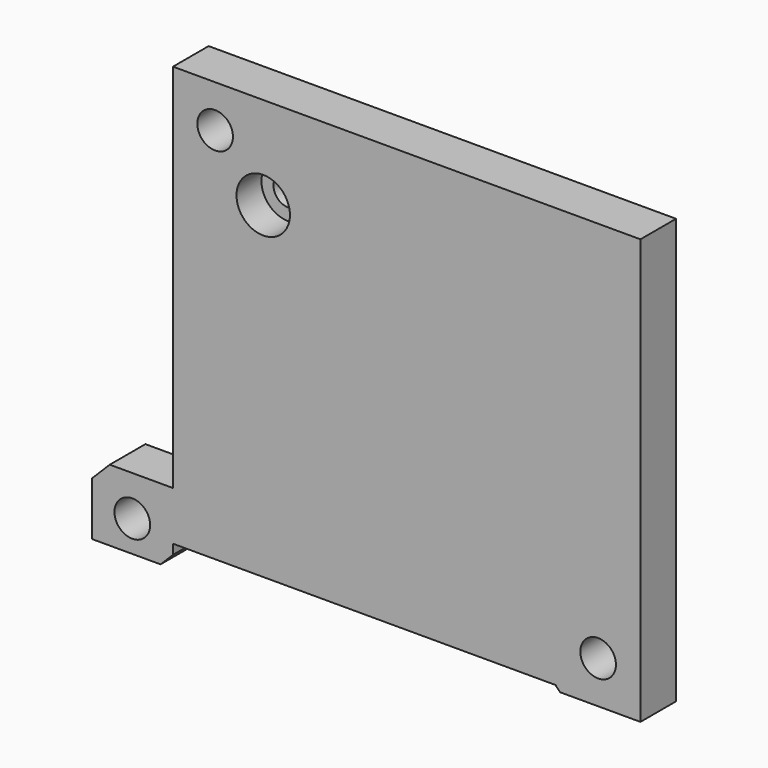
from build123d import *

# Parameters (mm, degrees)
CYLINDER067_R         = 3
CYLINDER067_DEPTH     = 17
CYLINDER064_R         = 1.65
CYLINDER064_DEPTH     = 17
CYLINDER061_R         = 2
CYLINDER061_DEPTH     = 10
CYLINDER062_R         = 2
CYLINDER062_DEPTH     = 10
BOX063025_W           = 13
BOX063025_H           = 5.4
BOX063025_DEPTH       = 4.5
BOX063028_W           = 13
BOX063028_H           = 5.25
BOX063028_DEPTH       = 4.5
CYLINDER063_R         = 1.3
CYLINDER063_DEPTH     = 10
BOX063027_W           = 3
BOX063027_H           = 10.5
BOX063027_DEPTH       = 5
CHAMFER005021028_SIZE = 1
CYLINDER065_R         = 2.5
CYLINDER065_DEPTH     = 1
CHAMFER005021027_SIZE = 0.6
BOX063024_W           = 3.1
BOX063024_H           = 10.5
BOX063024_DEPTH       = 4.5
CHAMFER005021029_SIZE = 1
CYLINDER060_R         = 2
CYLINDER060_DEPTH     = 10
BOX063018_W           = 9.1
BOX063018_H           = 5
BOX063018_DEPTH       = 8
CHAMFER005021024_SIZE = 2
CHAMFER005021025_SIZE = 1.4
BOX063020_W           = 9.5
BOX063020_H           = 5
BOX063020_DEPTH       = 1.55
CHAMFER005021032_SIZE = 0.5
BOX063019_W           = 52.48
BOX063019_H           = 5
BOX063019_DEPTH       = 47.15
BOX063021_W           = 14
BOX063021_H           = 5.5
BOX063021_DEPTH       = 7.5
CHAMFER005021026_SIZE = 0.5
BOX063023_W           = 2.9
BOX063023_H           = 10.5
BOX063023_DEPTH       = 7
CHAMFER005021031_SIZE = 1
BOX063022_W           = 2.9
BOX063022_H           = 10.5
BOX063022_DEPTH       = 7
CHAMFER005021030_SIZE = 1


with BuildPart() as cylinder067:
    # Cylinder067 → Cylinder067 (new body)
    with BuildSketch(Plane(origin=(0, -52, 35.75), x_dir=(1, 0, 0), z_dir=(0, -1, 0))):
        Circle(CYLINDER067_R)
    extrude(amount=CYLINDER067_DEPTH)


with BuildPart() as cylinder064:
    # Cylinder064 → Cylinder064 (new body)
    with BuildSketch(Plane(origin=(0, -43, 35.75), x_dir=(1, 0, 0), z_dir=(0, -1, 0))):
        Circle(CYLINDER064_R)
    extrude(amount=CYLINDER064_DEPTH)


with BuildPart() as cylinder061:
    # Cylinder061 → Cylinder061 (new body)
    with BuildSketch(Plane(origin=(-5.4, -67, 41.4), x_dir=(1, 0, 0), z_dir=(0, -1, 0))):
        Circle(CYLINDER061_R)
    extrude(amount=CYLINDER061_DEPTH)


with BuildPart() as fusion036012039007:
    # Cylinder062 → Cylinder062 (new body)
    with BuildSketch(Plane(origin=(37.6, -67, 3.2), x_dir=(1, 0, 0), z_dir=(0, -1, 0))):
        Circle(CYLINDER062_R)
    extrude(amount=CYLINDER062_DEPTH)

    # Fusion036012039007: union Cylinder061
    add(cylinder061.part)


with BuildPart() as fusion036012039007_1:
    # Fusion036012039007 placement: moved
    add(fusion036012039007.part.moved(Location((0, 16.5, 0))))


with BuildPart() as cube083:
    # Box063025 → Box063025 (new body)
    with BuildSketch(Plane(origin=(-6.5, -50.5, 7), x_dir=(1, 0, 0), z_dir=(0, 0, 1))):
        with Locations((6.5, 2.7)):
            Rectangle(BOX063025_W, BOX063025_H)
    extrude(amount=BOX063025_DEPTH)


with BuildPart() as cube086:
    # Box063028 → Box063028 (new body)
    with BuildSketch(Plane(origin=(6.5, -50.5, 7), x_dir=(1, 0, 0), z_dir=(0, 0, 1))):
        with Locations((6.5, 2.625)):
            Rectangle(BOX063028_W, BOX063028_H)
    extrude(amount=BOX063028_DEPTH)


with BuildPart() as cylinder063:
    # Cylinder063 → Cylinder063 (new body)
    with BuildSketch(Plane(origin=(24, -42.5, 9.5), x_dir=(0, 0, 1), z_dir=(-1, 0, 0))):
        Circle(CYLINDER063_R)
    extrude(amount=CYLINDER063_DEPTH)


with BuildPart() as chamfer005021029:
    # Box063027 → Box063027 (new body)
    with BuildSketch(Plane(origin=(17.5, -50.5, 7), x_dir=(1, 0, 0), z_dir=(0, 0, 1))):
        with Locations((1.5, 5.25)):
            Rectangle(BOX063027_W, BOX063027_H)
    extrude(amount=BOX063027_DEPTH)

    # Chamfer005021028
    chamfer005021028_edges = [chamfer005021029.edges().sort_by_distance(p)[0] for p in [
        (19, -40, 7),
        (19, -40, 12),
    ]]
    chamfer(chamfer005021028_edges, length=CHAMFER005021028_SIZE)


with BuildPart() as cut036009013017007008008017:
    # Cylinder065 → Cylinder065 (new body)
    with BuildSketch(Plane(origin=(17.5, -42.5, 9.5), x_dir=(0, 0, 1), z_dir=(-1, 0, 0))):
        Circle(CYLINDER065_R)
    extrude(amount=CYLINDER065_DEPTH)

    # Chamfer005021027
    chamfer005021027_edges = [cut036009013017007008008017.edges().sort_by_distance(p)[0] for p in [
        (16.5, -42.5, 7),
    ]]
    chamfer(chamfer005021027_edges, length=CHAMFER005021027_SIZE)

    # Fusion036012039002: union Chamfer005021029
    add(chamfer005021029.part)

    # Cut036009013017007008008017: cut Cylinder063
    add(cylinder063.part, mode=Mode.SUBTRACT)


with BuildPart() as fusion036012039004:
    # Box063024 → Box063024 (new body)
    with BuildSketch(Plane(origin=(-9.5, -50.5, 7), x_dir=(1, 0, 0), z_dir=(0, 0, 1))):
        with Locations((1.55, 5.25)):
            Rectangle(BOX063024_W, BOX063024_H)
    extrude(amount=BOX063024_DEPTH)

    # Chamfer005021029
    chamfer005021029_edges = [fusion036012039004.edges().sort_by_distance(p)[0] for p in [
        (-7.95, -40, 7),
        (-7.95, -40, 11.5),
    ]]
    chamfer(chamfer005021029_edges, length=CHAMFER005021029_SIZE)

    # Fusion036012039004: union Cube083, Cube086, Cut036009013017007008008017
    add(cube083.part)
    add(cube086.part)
    add(cut036009013017007008008017.part)


with BuildPart() as cylinder060:
    # Cylinder060 → Cylinder060 (new body)
    with BuildSketch(Plane(origin=(-14.7, -48.5, 0), x_dir=(1, 0, 0), z_dir=(0, -1, 0))):
        Circle(CYLINDER060_R)
    extrude(amount=CYLINDER060_DEPTH)


with BuildPart() as cut036009013017007008008016:
    # Box063018 → Box063018 (new body)
    with BuildSketch(Plane(origin=(-19.23, -55.5, -3.5), x_dir=(1, 0, 0), z_dir=(0, 0, 1))):
        with Locations((4.55, 2.5)):
            Rectangle(BOX063018_W, BOX063018_H)
    extrude(amount=BOX063018_DEPTH)

    # Chamfer005021024
    chamfer005021024_edges = [cut036009013017007008008016.edges().sort_by_distance(p)[0] for p in [
        (-19.23, -53, 4.5),
    ]]
    chamfer(chamfer005021024_edges, length=CHAMFER005021024_SIZE)

    # Chamfer005021025
    chamfer005021025_edges = [cut036009013017007008008016.edges().sort_by_distance(p)[0] for p in [
        (-10.13, -53, -3.5),
    ]]
    chamfer(chamfer005021025_edges, length=CHAMFER005021025_SIZE)

    # Cut036009013017007008008016: cut Cylinder060
    add(cylinder060.part, mode=Mode.SUBTRACT)


with BuildPart() as chamfer005021033:
    # Box063020 → Box063020 (new body)
    with BuildSketch(Plane(origin=(32.85, -55.5, -1.55), x_dir=(1, 0, 0), z_dir=(0, 0, 1))):
        with Locations((4.75, 2.5)):
            Rectangle(BOX063020_W, BOX063020_H)
    extrude(amount=BOX063020_DEPTH)

    # Chamfer005021032
    chamfer005021032_edges = [chamfer005021033.edges().sort_by_distance(p)[0] for p in [
        (32.85, -53, -1.55),
    ]]
    chamfer(chamfer005021032_edges, length=CHAMFER005021032_SIZE)


with BuildPart() as fusion036012039005:
    # Box063019 → Box063019 (new body)
    with BuildSketch(Plane(origin=(-10.13, -55.5, -1), x_dir=(1, 0, 0), z_dir=(0, 0, 1))):
        with Locations((26.24, 2.5)):
            Rectangle(BOX063019_W, BOX063019_H)
    extrude(amount=BOX063019_DEPTH)

    # Fusion036012039005: union Cut036009013017007008008016, Chamfer005021033
    add(cut036009013017007008008016.part)
    add(chamfer005021033.part)


with BuildPart() as chamfer005021027:
    # Box063021 → Box063021 (new body)
    with BuildSketch(Plane(origin=(-7, -50.5, 32), x_dir=(1, 0, 0), z_dir=(0, 0, 1))):
        with Locations((7, 2.75)):
            Rectangle(BOX063021_W, BOX063021_H)
    extrude(amount=BOX063021_DEPTH)

    # Chamfer005021026
    chamfer005021026_edges = [chamfer005021027.edges().sort_by_distance(p)[0] for p in [
        (-7, -47.75, 32),
        (7, -47.75, 32),
    ]]
    chamfer(chamfer005021026_edges, length=CHAMFER005021026_SIZE)


with BuildPart() as chamfer005021032:
    # Box063023 → Box063023 (new body)
    with BuildSketch(Plane(origin=(6.6, -50.5, 32.5), x_dir=(1, 0, 0), z_dir=(0, 0, 1))):
        with Locations((1.45, 5.25)):
            Rectangle(BOX063023_W, BOX063023_H)
    extrude(amount=BOX063023_DEPTH)

    # Chamfer005021031
    chamfer005021031_edges = [chamfer005021032.edges().sort_by_distance(p)[0] for p in [
        (8.05, -40, 32.5),
        (8.05, -40, 39.5),
    ]]
    chamfer(chamfer005021031_edges, length=CHAMFER005021031_SIZE)


with BuildPart() as grid_plate_base:
    # Box063022 → Box063022 (new body)
    with BuildSketch(Plane(origin=(-9.5, -50.5, 32.5), x_dir=(1, 0, 0), z_dir=(0, 0, 1))):
        with Locations((1.45, 5.25)):
            Rectangle(BOX063022_W, BOX063022_H)
    extrude(amount=BOX063022_DEPTH)

    # Chamfer005021030
    chamfer005021030_edges = [grid_plate_base.edges().sort_by_distance(p)[0] for p in [
        (-8.05, -40, 32.5),
        (-8.05, -40, 39.5),
    ]]
    chamfer(chamfer005021030_edges, length=CHAMFER005021030_SIZE)

    # Fusion036012039003: union Chamfer005021027, Chamfer005021032
    add(chamfer005021027.part)
    add(chamfer005021032.part)

    # Fusion036012039006: union Fusion036012039004, Fusion036012039005
    add(fusion036012039004.part)
    add(fusion036012039005.part)

    # Cut036009013017007008008019: cut Fusion036012039007
    add(fusion036012039007_1.part, mode=Mode.SUBTRACT)

    # Cut036009013017007008008020: cut Cylinder064
    add(cylinder064.part, mode=Mode.SUBTRACT)

    # Cut036009013017007008008021: cut Cylinder067
    add(cylinder067.part, mode=Mode.SUBTRACT)


solid = grid_plate_base.part
